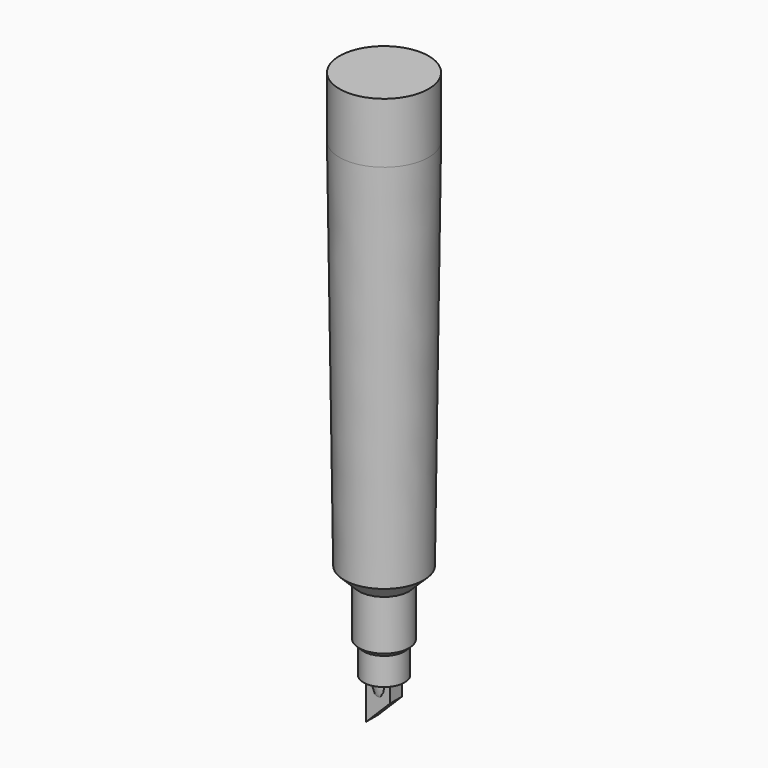
from build123d import *

# Parameters (mm, degrees)
F3_DEPTH = 1.5875


with BuildPart() as f1:
    # F0 (on Front) → F1 (revolve)
    with BuildSketch(Plane.XZ):
        Polygon((0, 117.856), (0, 6.096), (4.318, 6.096), (4.318, 22.352), (8.382, 26.416), (9.398, 105.156), (9.398, 117.856), align=None)
    revolve(axis=Axis((0, 0, -21.406557), (0, 0, -1)))

    # F2 (on Front) → F3 (join, symmetric)
    with BuildSketch(Plane.XZ):
        Polygon((2.54, 8.677997), (-2.54, 8.677997), (-2.54, -2.794), (2.54, 2.286), align=None)
    extrude(amount=F3_DEPTH, both=True)


with BuildPart() as f5:
    # F4 (on Front) → F5 (revolve)
    with BuildSketch(Plane.XZ):
        Polygon((0, 117.2718), (0, 5.5118), (2.078408, 5.5118), (2.8067, 5.5118), (2.8067, 10.3378), (5.2705, 12.8016), (5.2705, 38.1508), (5.842, 38.1508), (5.842, 117.2718), align=None)
        with BuildLine():
            Line((2.078408, 5.5118), (0, 5.5118))
            Line((0, 5.5118), (0, 0))
            ThreePointArc((0, 0), (1.570572, 2.55553), (2.078408, 5.5118))
        make_face()
    revolve(axis=Axis((0, 0, -25.9715), (0, 0, -1)))


solid = Compound([f1.part, f5.part])
